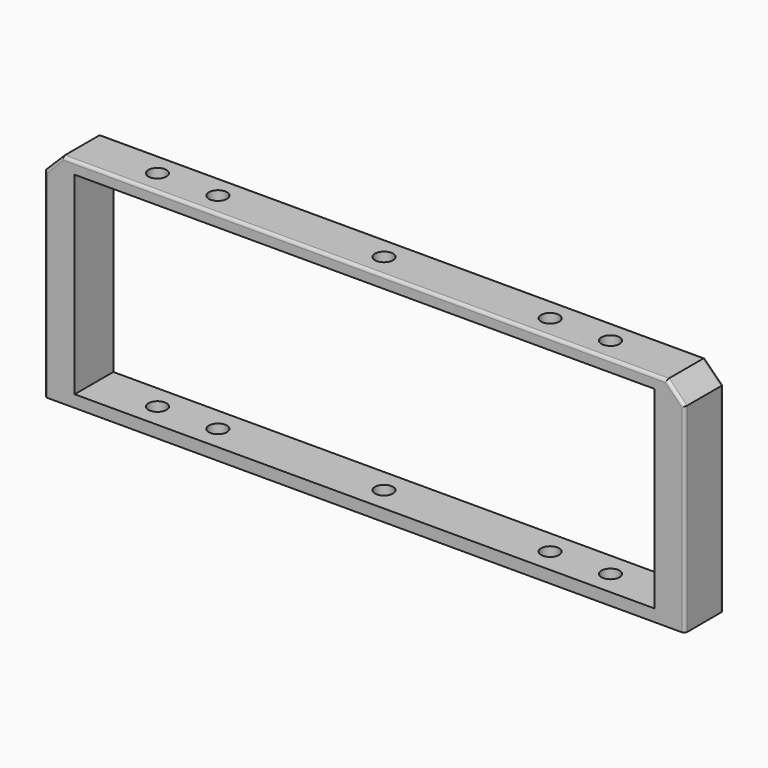
from build123d import *

# Parameters (mm, degrees)
F1_W     = 106
F1_H     = 8
F1_R     = 1.5
F2_DEPTH = 36
F3_W     = 96
F3_H     = 32
F4_DEPTH = 25
F5_SIZE  = 3
F6_R     = 0.5


with BuildPart() as f2:
    # F1 (on Top) → F2 (new body)
    with BuildSketch(Plane.XY):
        Rectangle(F1_W, F1_H)
        with Locations((-37.5, 0)):
            Circle(F1_R, mode=Mode.SUBTRACT)
        with Locations((-27.5, 0)):
            Circle(F1_R, mode=Mode.SUBTRACT)
        Circle(F1_R, mode=Mode.SUBTRACT)
        with Locations((27.5, 0)):
            Circle(F1_R, mode=Mode.SUBTRACT)
        with Locations((37.5, 0)):
            Circle(F1_R, mode=Mode.SUBTRACT)
        Rectangle(F1_W, F1_H)
        with Locations((-37.5, 0)):
            Circle(F1_R, mode=Mode.SUBTRACT)
        with Locations((-27.5, 0)):
            Circle(F1_R, mode=Mode.SUBTRACT)
        Circle(F1_R, mode=Mode.SUBTRACT)
        with Locations((27.5, 0)):
            Circle(F1_R, mode=Mode.SUBTRACT)
        with Locations((37.5, 0)):
            Circle(F1_R, mode=Mode.SUBTRACT)
        Rectangle(F1_W, F1_H)
        with Locations((-37.5, 0)):
            Circle(F1_R, mode=Mode.SUBTRACT)
        with Locations((-27.5, 0)):
            Circle(F1_R, mode=Mode.SUBTRACT)
        Circle(F1_R, mode=Mode.SUBTRACT)
        with Locations((27.5, 0)):
            Circle(F1_R, mode=Mode.SUBTRACT)
        with Locations((37.5, 0)):
            Circle(F1_R, mode=Mode.SUBTRACT)
    extrude(amount=F2_DEPTH)

    # F3 (on face) → F4 (cut)
    with BuildSketch(Plane.XZ.offset(4)):
        with Locations((0, 18)):
            Rectangle(F3_W, F3_H)
    extrude(amount=-F4_DEPTH, mode=Mode.SUBTRACT)

    # F5
    f5_edges = [f2.edges().sort_by_distance(p)[0] for p in [
        (-53, 0, 36),
        (53, 0, 36),
    ]]
    chamfer(f5_edges, length=F5_SIZE)

    # F6
    f6_edges = [f2.edges().sort_by_distance(p)[0] for p in [
        (0, -4, 36),
        (0, 4, 36),
        (51.5, -4, 34.5),
        (53, -4, 16.5),
        (51.5, 4, 34.5),
        (53, 4, 16.5),
        (-51.5, -4, 34.5),
        (-51.5, 4, 34.5),
        (-53, -4, 16.5),
        (-53, 4, 16.5),
    ]]
    fillet(f6_edges, radius=F6_R)


with BuildPart() as f7_1:
    # F7: copy of F2
    add(f2.part)


solid = Compound([f2.part, f7_1.part])
